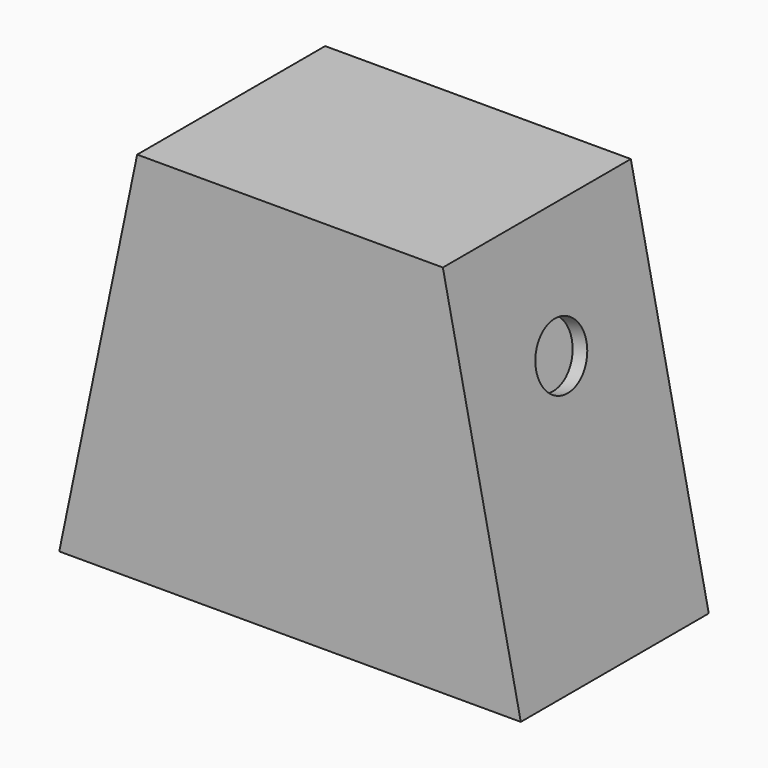
from build123d import *

# Parameters (mm, degrees)
F1_DEPTH = 7.84
F3_T     = -0.5
F2_R     = 1.0501143569
F4_DEPTH = 0.5
F5_R     = 1.5374067345
F6_DEPTH = 0.5


with BuildPart() as f1:
    # F0 (on Front) → F1 (new body)
    with BuildSketch(Plane.XZ):
        Polygon((2.6, 12.5025157468), (0, 0), (15.4, 0), (12.8, 12.5025157468), align=None)
    extrude(amount=F1_DEPTH)

    # F3
    f3_openings = [f1.faces().sort_by_distance(p)[0] for p in [
        (7.7, -3.92, 0),
    ]]
    offset(amount=F3_T, openings=f3_openings)

    # F2 (on face) → F4 (cut, through all)
    with BuildSketch(Plane(origin=(14.7616106661, 0, 3.069797192), x_dir=(0, 1, 0), z_dir=(0.9790536998, 0, 0.2036021926))):
        with Locations((-3.92, 5.6268600747)):
            Circle(F2_R)
    extrude(amount=-F4_DEPTH, mode=Mode.SUBTRACT)

    # F5 (on face) → F6 (cut, through all)
    with BuildSketch(Plane(origin=(0, 0, 0), x_dir=(0, -1, 0), z_dir=(-0.9790536998, 0, 0.2036021926))):
        with Locations((3.92, 8.7754800916)):
            Circle(F5_R)
    extrude(amount=-F6_DEPTH, mode=Mode.SUBTRACT)


solid = f1.part
